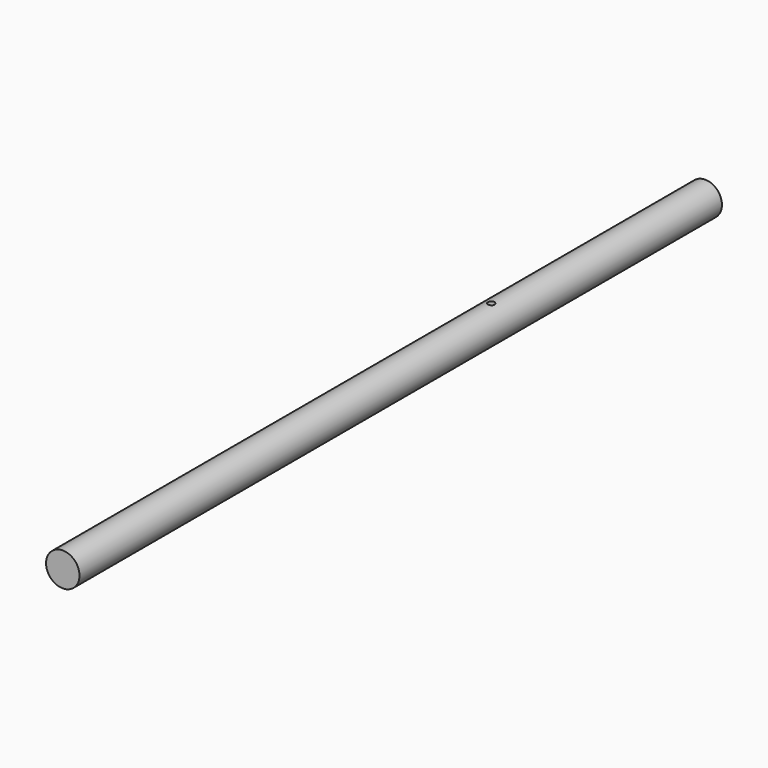
from build123d import *

# Parameters (mm, degrees)
F0_R     = 5
F1_DEPTH = 240
F3_R     = 1
F4_DEPTH = 10.001


with BuildPart() as f1:
    # F0 (on Front) → F1 (new body)
    with BuildSketch(Plane.XZ):
        Circle(F0_R)
    extrude(amount=F1_DEPTH)

    # F3 (on offset) → F4 (cut, through all)
    with BuildSketch(Plane.XY.offset(5)):
        with Locations((0, -80)):
            Circle(F3_R)
    extrude(amount=-F4_DEPTH, mode=Mode.SUBTRACT)


solid = f1.part
